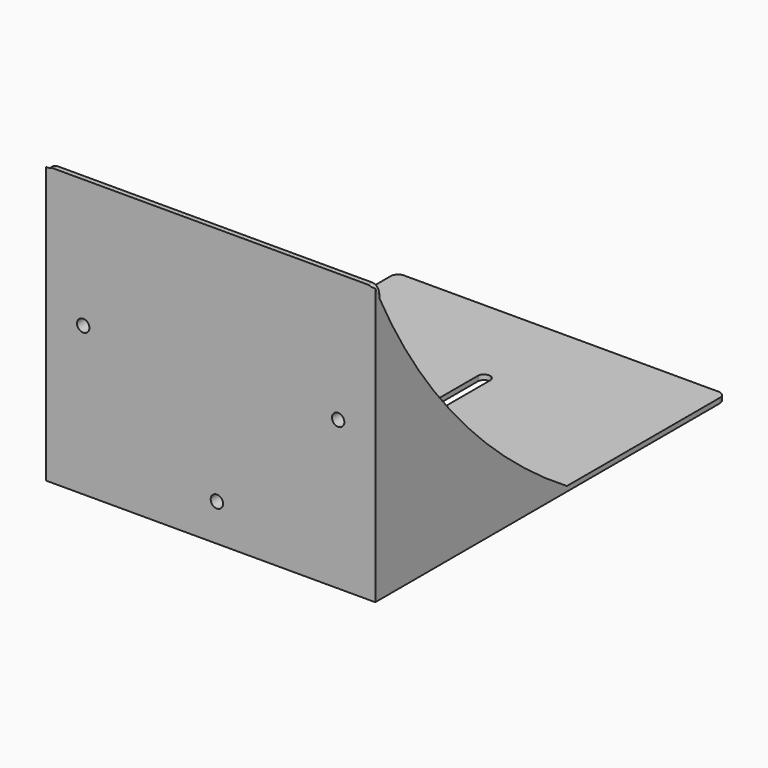
from build123d import *

# Parameters (mm, degrees)
F1_DEPTH  = 133
F2_R      = 2.5
F3_DEPTH  = 25
F4_R      = 4
F5_DEPTH  = 5
F6_DEPTH  = 25
F7_R      = 3
F9_DEPTH  = 25
F11_DEPTH = 2
F13_DEPTH = 2


with BuildPart() as f1:
    # F0 (on Right) → F1 (new body)
    with BuildSketch(Plane.YZ):
        Polygon((-128.955605, 0), (-128.955605, 110), (-130.955605, 110), (-130.955605, 0), (-130.955605, -2), (46.044395, -2), (46.044395, 0), align=None)
    extrude(amount=F1_DEPTH)

    # F2 (on face) → F3 (cut)
    with BuildSketch(Plane.XZ.offset(130.955605)):
        with Locations((69, 13)):
            Circle(F2_R)
        with Locations((15, 58)):
            Circle(F2_R)
        with Locations((118, 58)):
            Circle(F2_R)
    extrude(amount=-F3_DEPTH, mode=Mode.SUBTRACT)

    # F4 (on face) → F5 (join)
    with BuildSketch(Plane.XZ.offset(130.955605)):
        with Locations((15, 58)):
            Circle(F4_R)
        with Locations((69, 13)):
            Circle(F4_R)
        with Locations((118, 58)):
            Circle(F4_R)
    extrude(amount=-F5_DEPTH)

    # F2 (on face) → F6 (cut)
    with BuildSketch(Plane.XZ.offset(130.955605)):
        with Locations((69, 13)):
            Circle(F2_R)
        with Locations((15, 58)):
            Circle(F2_R)
        with Locations((118, 58)):
            Circle(F2_R)
    extrude(amount=-F6_DEPTH, mode=Mode.SUBTRACT)

    # F7
    f7_edges = [f1.edges().sort_by_distance(p)[0] for p in [
        (0, -129.955605, 110),
        (133, -129.955605, 110),
        (133, 46.044395, -1),
        (0, 46.044395, -1),
    ]]
    fillet(f7_edges, radius=F7_R)

    # F8 (on face) → F9 (cut)
    with BuildSketch(Plane.XY):
        with BuildLine():
            Line((64, 7.044395), (64, -92.955605))
            ThreePointArc((64, -92.955605), (66.5, -95.455605), (69, -92.955605))
            Line((69, -92.955605), (69, 7.044395))
            ThreePointArc((69, 7.044395), (66.5, 9.544395), (64, 7.044395))
        make_face()
    extrude(amount=-F9_DEPTH, mode=Mode.SUBTRACT)

    # F10 (on face) → F11 (join)
    with BuildSketch(Plane.YZ.offset(133)):
        with BuildLine():
            Line((-130.955605, 109.6), (-130.955605, -2))
            Line((-130.955605, -2), (-30.955605, -2))
            ThreePointArc((-30.955605, -2), (-89.169777, 46.439631), (-130.955605, 109.6))
        make_face()
    extrude(amount=-F11_DEPTH)

    # F12 (on face) → F13 (join)
    with BuildSketch(Plane(origin=(0, 0, 0), x_dir=(0, -1, 0), z_dir=(-1, 0, 0))):
        with BuildLine():
            Line((30.955605, -2), (130.955605, -2))
            Line((130.955605, -2), (130.955605, 109.6))
            ThreePointArc((130.955605, 109.6), (89.169777, 46.439631), (30.955605, -2))
        make_face()
    extrude(amount=-F13_DEPTH)


solid = f1.part
